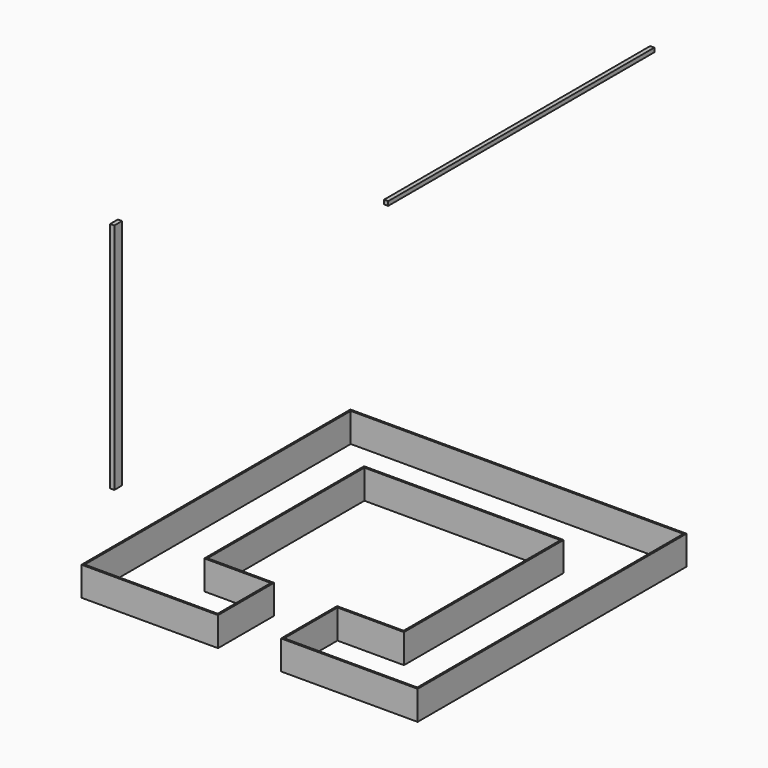
from build123d import *

# Parameters (mm, degrees)
F1_DEPTH = 266.7
F3_W     = 88.900001
F3_H     = 2133.6
F4_DEPTH = 38.1
F6_W     = 38.1
F6_H     = 3048
F7_DEPTH = 38.1


with BuildPart() as f1:
    # F0 (on Top) → F1 (new body)
    with BuildSketch(Plane.XY):
        Polygon((288.925146, -1539.875005), (1539.875005, -1539.875005), (1539.875005, 1539.875005), (-1539.875005, 1539.875005), (-1539.875005, -1539.875005), (-288.925146, -1539.875005), (-288.925146, -898.524999), (-898.524999, -898.524999), (-898.524999, 898.524999), (898.524999, 898.524999), (898.524999, -898.524999), (288.925146, -898.524999), align=None)
        Polygon((1524.000145, 1524), (1524.000145, -1524), (304.800145, -1524), (304.800145, -914.4), (914.4, -914.4), (914.4, 914.4), (-914.4, 914.4), (-914.4, -914.4), (-304.800145, -914.4), (-304.800145, -1524), (-1524.000145, -1524), (-1524.000145, 1524), align=None, mode=Mode.SUBTRACT)
    extrude(amount=F1_DEPTH)


with BuildPart() as f4:
    # F3 (on offset) → F4 (new body)
    with BuildSketch(Plane.YZ.offset(-2438.4)):
        with Locations((-44.45, 1066.8)):
            Rectangle(F3_W, F3_H)
    extrude(amount=F4_DEPTH)


with BuildPart() as f7:
    # F6 (on offset) → F7 (new body)
    with BuildSketch(Plane.XY.offset(3048)):
        with Locations((19.05, 1524)):
            Rectangle(F6_W, F6_H)
    extrude(amount=F7_DEPTH)


solid = Compound([f1.part, f4.part, f7.part])
